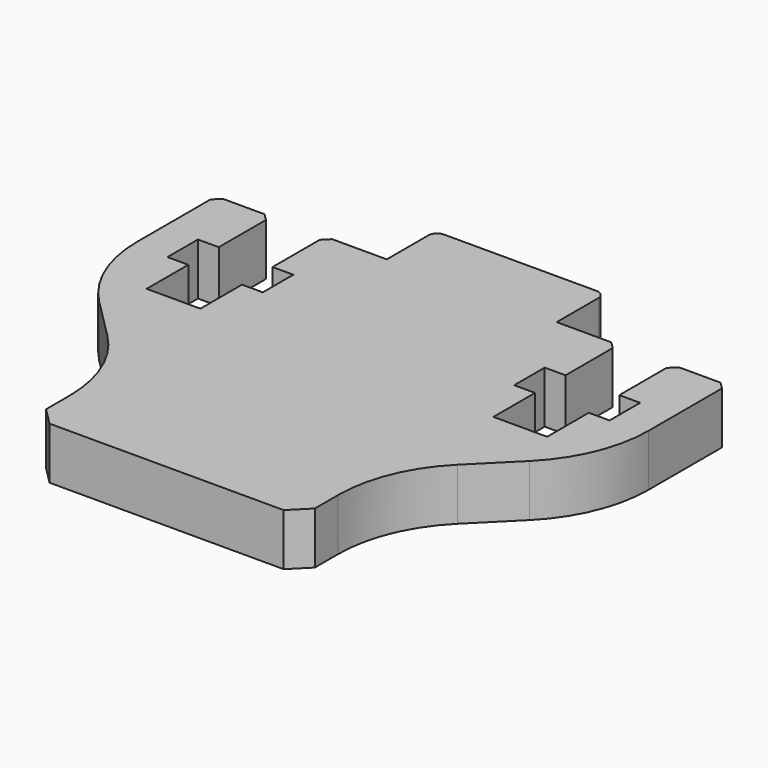
from build123d import *

# Parameters (mm, degrees)
PAD096_DEPTH       = 3
FILLET_R           = 0.5
CHAMFER061_SIZE    = 7
CHAMFER062_SIZE    = 0.4
CHAMFER062_FACE6_W = 15.5
CHAMFER062_FACE6_H = 3
PAD097_DEPTH       = 6
CHAMFER063_SIZE    = 1
FILLET065_R        = 8


with BuildPart() as part:
    # Sketch181 (on Binder) → Pad096 (new body)
    with BuildSketch(Plane.XY.offset(211.44686)):
        Polygon((-28.37148, 75), (-25.17148, 75), (-25.17148, 71.2), (-26.37148, 71.2), (-26.37148, 69), (-25.17148, 69), (-25.17148, 66), (-22.07148, 66), (-22.07148, 69), (-20.87148, 69), (-20.87148, 71.2), (-22.07148, 71.2), (-22.07148, 75), (-18.52148, 75), (-18.52148, 78.5), (-8.72148, 78.5), (-8.72148, 75), (-5.17148, 75), (-5.17148, 71.2), (-6.37148, 71.2), (-6.37148, 69), (-5.17148, 69), (-5.17148, 66), (-2.07148, 66), (-2.07148, 69), (-0.87148, 69), (-0.87148, 71.2), (-2.07148, 71.2), (-2.07148, 75), (1.12852, 75), (1.12852, 59), (-28.37148, 59), align=None)
    extrude(amount=PAD096_DEPTH)

    # Fillet
    fillet_edges = [part.edges().sort_by_distance(p)[0] for p in [
        (-18.52148, 78.5, 212.94686),
        (-8.72148, 78.5, 212.94686),
    ]]
    fillet(fillet_edges, radius=FILLET_R)

    # Chamfer061
    chamfer061_edges = [part.edges().sort_by_distance(p)[0] for p in [
        (1.12852, 59, 212.94686),
        (-28.37148, 59, 212.94686),
    ]]
    chamfer(chamfer061_edges, length=CHAMFER061_SIZE)

    # Chamfer062
    chamfer062_edges = [part.edges().sort_by_distance(p)[0] for p in [
        (-28.37148, 75, 212.94686),
        (1.12852, 75, 212.94686),
        (-2.07148, 75, 212.94686),
        (-5.17148, 75, 212.94686),
        (-22.07148, 75, 212.94686),
        (-25.17148, 75, 212.94686),
    ]]
    chamfer(chamfer062_edges, length=CHAMFER062_SIZE)

    # Chamfer062 Face6 → Pad097 (add)
    with BuildSketch(Plane(origin=(-13.62148, 59, 212.94686), x_dir=(-1, 0, 0), z_dir=(0, -1, 0))):
        Rectangle(CHAMFER062_FACE6_W, CHAMFER062_FACE6_H)
    extrude(amount=PAD097_DEPTH)

    # Chamfer063
    chamfer063_edges = [part.edges().sort_by_distance(p)[0] for p in [
        (-5.87148, 53, 212.94686),
        (-21.37148, 53, 212.94686),
    ]]
    chamfer(chamfer063_edges, length=CHAMFER063_SIZE)

    # Fillet065
    fillet065_edges = [part.edges().sort_by_distance(p)[0] for p in [
        (-21.37148, 59, 212.94686),
        (-28.37148, 66, 212.94686),
        (-5.87148, 59, 212.94686),
        (1.12852, 66, 212.94686),
    ]]
    fillet(fillet065_edges, radius=FILLET065_R)


solid = part.part
